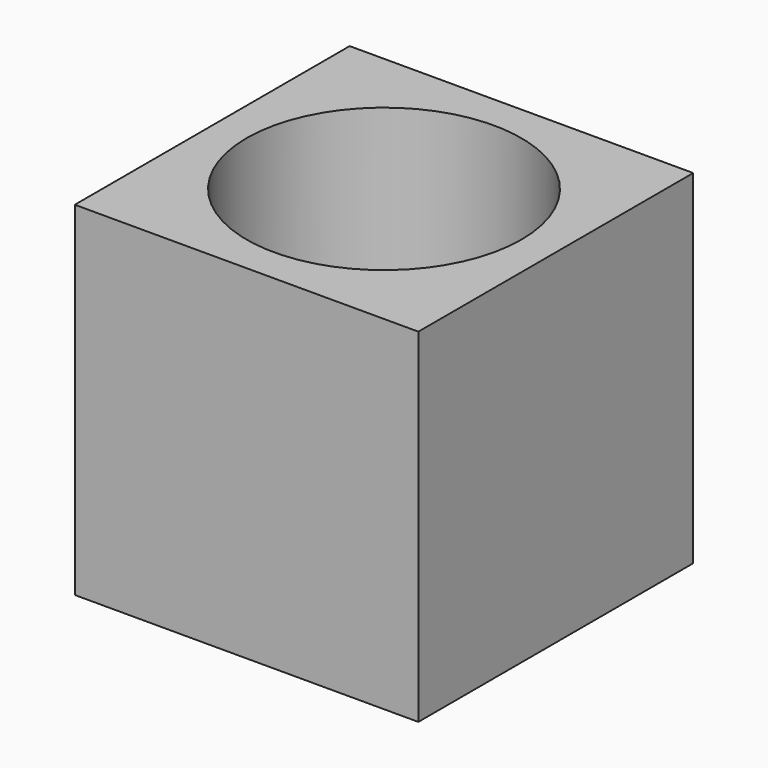
from build123d import *

# Parameters (mm, degrees)
F0_W     = 127
F0_H     = 127
F0_R     = 50.8
F1_DEPTH = 127
F2_DEPTH = 127


with BuildPart() as f1:
    # F0 (on Top) → F1 (new body)
    with BuildSketch(Plane.XY):
        with Locations((-30.897623, 23.733923)):
            Rectangle(F0_W, F0_H)
        with Locations((-30.897623, 23.733923)):
            Circle(F0_R, mode=Mode.SUBTRACT)
    extrude(amount=F1_DEPTH)

    # F0 (on Top) → F2 (join)
    with BuildSketch(Plane.XY):
        with Locations((-30.897623, 23.733923)):
            Rectangle(F0_W, F0_H)
        with Locations((-30.897623, 23.733923)):
            Circle(F0_R, mode=Mode.SUBTRACT)
    extrude(amount=F2_DEPTH)


solid = f1.part
